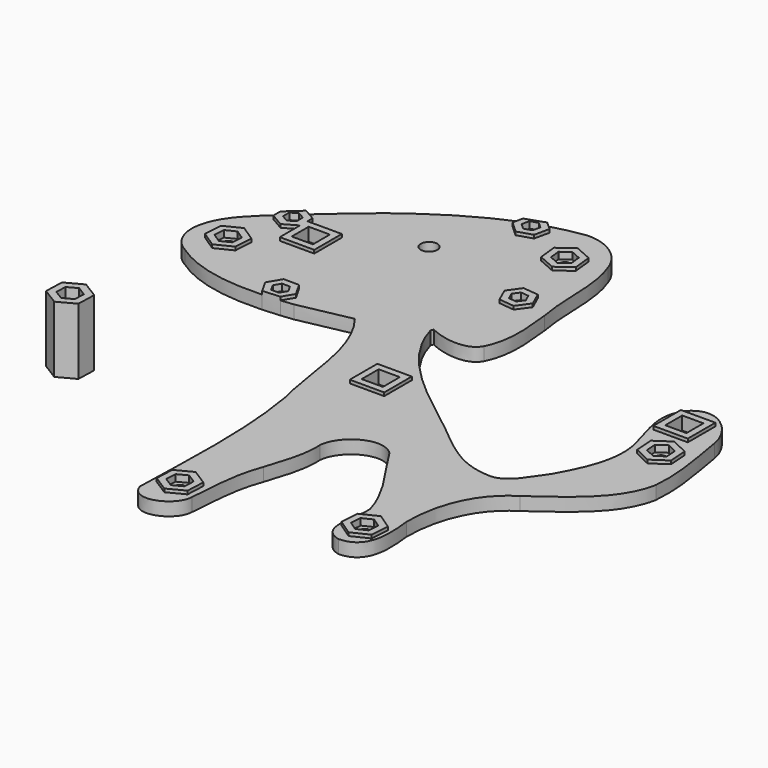
from build123d import *

# Parameters (mm, degrees)
F0_R     = 6.25
F0_W     = 26
F0_H     = 26
F1_DEPTH = 10
F0_R_2   = 3.75
F2_DEPTH = 7.5
F0_R_3   = 2.75
F0_W_2   = 16
F0_H_2   = 16
F0_R_4   = 1.5
F3_DEPTH = 2.5
F4_DEPTH = 12.5
F5_DEPTH = 12.5
F6_R     = 3.75
F7_DEPTH = 7.5
F8_DEPTH = 50


with BuildPart() as f1:
    # F0 (on Top) → F1 (new body)
    with BuildSketch(Plane.XY):
        with BuildLine():
            add(Edge.make_bspline(
                [(-38.841875, 161.131834), (-39.720123, 129.920314), (-16.072931, 104.294138), (-15.185107, 73.38685)],
                knots=[0, 0, 0, 0, 1, 1, 1, 1], degree=3))
            Line((-38.841875, 161.131834), (-41.554724616, 177.0838462644))
            Line((-41.554724616, 177.0838462644), (-23.9367173132, 180.6192583294))
            Line((-23.9367173132, 180.6192583294), (-24.2669254741, 183.6946423517))
            Line((-24.2669254741, 183.6946423517), (-12.958562974, 191.9494452505))
            Line((-12.958562974, 191.9494452505), (-0.1555127103, 186.2835174995))
            Line((-0.1555127103, 186.2835174995), (-0.0617495412, 185.4102569743))
            Line((-0.0617495412, 185.4102569743), (13.204509, 188.072402))
            add(Edge.make_bspline(
                [(-21.281315, 211.977922), (-6.118395, 212.249314), (8.255597, 202.455546), (13.204509, 188.072402)],
                knots=[0, 0, 0, 0, 1, 1, 1, 1], degree=3))
            add(Edge.make_bspline(
                [(-47.3936642487, 206.3825959146), (-38.8712875454, 208.9149716362), (-30.1603501914, 210.8221492547), (-21.281315, 211.977922)],
                knots=[0.742089622, 0.742089622, 0.742089622, 0.742089622, 1, 1, 1, 1], degree=3))
            Line((-47.3936642487, 206.3825959146), (-41.195786113, 200.7080963895))
            Line((-41.195786113, 200.7080963895), (-43.7214392094, 189.2928181872))
            Line((-43.7214392094, 189.2928181872), (-54.8701866721, 185.7724588287))
            Line((-54.8701866721, 185.7724588287), (-63.4932810384, 193.6673776725))
            Line((-63.4932810384, 193.6673776725), (-61.7666893463, 201.4711115006))
            add(Edge.make_bspline(
                [(-115.787675, 172.001706), (-99.0147107488, 183.7376878674), (-80.9238753373, 194.0779171295), (-61.7666893463, 201.4711115006)],
                knots=[0, 0, 0, 0, 0.5952118172, 0.5952118172, 0.5952118172, 0.5952118172], degree=3))
            add(Edge.make_bspline(
                [(-167.8316685759, 129.3899788318), (-151.2044437982, 144.4531104032), (-134.3128899038, 159.2745541863), (-115.787675, 172.001706)],
                knots=[0.1470034681, 0.1470034681, 0.1470034681, 0.1470034681, 1, 1, 1, 1], degree=3))
            Line((-167.8316685759, 129.3899788318), (-158.8069967173, 124.1795821049))
            Line((-158.8069967173, 124.1795821049), (-158.8069967173, 119.3435301185))
            Line((-158.8069967173, 119.3435301185), (-132.8584666252, 119.3435301185))
            Line((-132.8584666252, 119.3435301185), (-132.8584666252, 93.3435301185))
            Line((-132.8584666252, 93.3435301185), (-158.8584666252, 93.3435301185))
            Line((-158.8584666252, 93.3435301185), (-158.8584666252, 112.4585229886))
            Line((-158.8584666252, 112.4585229886), (-168.9319967173, 106.6425676782))
            Line((-168.9319967173, 106.6425676782), (-179.0569967173, 112.4882391538))
            Line((-179.0569967173, 112.4882391538), (-179.0569967173, 119.2292731949))
            add(Edge.make_bspline(
                [(-209.108739, 75.891962), (-207.2498367733, 94.497790766), (-192.3128947706, 107.4481313801), (-179.0569967173, 119.2292731949)],
                knots=[0, 0, 0, 0, 0.9370260318, 0.9370260318, 0.9370260318, 0.9370260318], degree=3))
            add(Edge.make_bspline(
                [(-195.672755, 49.820258), (-205.198979, 54.880378), (-210.113259, 65.305282), (-209.108739, 75.891962)],
                knots=[0, 0, 0, 0, 1, 1, 1, 1], degree=3))
            add(Edge.make_bspline(
                [(-124.0952362301, 33.2749341836), (-149.1550807874, 32.1589785846), (-174.7482235571, 35.2930101361), (-195.672755, 49.820258)],
                knots=[0.2320195156, 0.2320195156, 0.2320195156, 0.2320195156, 1, 1, 1, 1], degree=3))
            Line((-124.0952362301, 33.2749341836), (-129.5007330881, 42.8745571083))
            Line((-129.5007330881, 42.8745571083), (-123.5464806086, 52.9360866844))
            Line((-123.5464806086, 52.9360866844), (-111.8558141551, 52.8103175647))
            Line((-111.8558141551, 52.8103175647), (-106.1194001809, 42.6230188689))
            Line((-106.1194001809, 42.6230188689), (-111.1011926278, 34.2047577659))
            add(Edge.make_bspline(
                [(-101.671739, 35.253146), (-104.7839178769, 34.8642399789), (-107.9307285043, 34.5097521444), (-111.1011926278, 34.2047577659)],
                knots=[0, 0, 0, 0, 0.0985084948, 0.0985084948, 0.0985084948, 0.0985084948], degree=3))
            add(Edge.make_bspline(
                [(-62.1746247344, 43.2968581896), (-75.3043546753, 40.4233110508), (-88.4891608143, 37.7978454214), (-101.671739, 35.253146)],
                knots=[0.4611117231, 0.4611117231, 0.4611117231, 0.4611117231, 1, 1, 1, 1], degree=3))
            add(Edge.make_bspline(
                [(-28.627267, 51.323042), (-39.7454600662, 48.3961261156), (-50.9398796945, 45.7556726215), (-62.1746247344, 43.2968581896)],
                knots=[0, 0, 0, 0, 0.4611117231, 0.4611117231, 0.4611117231, 0.4611117231], degree=3))
            add(Edge.make_bspline(
                [(-18.1623786352, 59.599996037), (-20.2008427618, 55.2444568753), (-23.4860225124, 51.8394994195), (-28.627267, 51.323042)],
                knots=[0.4962491909, 0.4962491909, 0.4962491909, 0.4962491909, 1, 1, 1, 1], degree=3))
            add(Edge.make_bspline(
                [(-17.2723689683, 61.7690988961), (-17.5384302326, 61.0268229981), (-17.8342529794, 60.3010945382), (-18.1623786352, 59.599996037)],
                knots=[0.4151618848, 0.4151618848, 0.4151618848, 0.4151618848, 0.4962491909, 0.4962491909, 0.4962491909, 0.4962491909], degree=3))
            add(Edge.make_bspline(
                [(-15.185107, 73.38685), (-15.3280953957, 69.8036807685), (-15.910152103, 65.5695046032), (-17.2723689683, 61.7690988961)],
                knots=[0, 0, 0, 0, 0.4151618848, 0.4151618848, 0.4151618848, 0.4151618848], degree=3))
        make_face()
        Polygon((-170.7598724298, 81.4658008802), (-171.6623964445, 67.4941766462), (-184.2134399707, 61.2899732535), (-195.8619594821, 69.0573940948), (-194.9594354673, 83.0290183288), (-182.4083919412, 89.2332217215), align=None, mode=Mode.SUBTRACT)
        with Locations((-85.4194015265, 142.3747986555)):
            Circle(F0_R, mode=Mode.SUBTRACT)
        with BuildLine():
            add(Edge.make_bspline(
                [(57.014525, -25.174534), (28.6733788851, -3.0887744829), (-8.0420129595, 23.5504424782), (-18.1623786352, 59.599996037)],
                knots=[0, 0, 0, 0, 0.996419578, 0.996419578, 0.996419578, 0.996419578], degree=3))
            add(Edge.make_bspline(
                [(-18.1623786352, 59.599996037), (-20.2008427618, 55.2444568753), (-23.4860225124, 51.8394994195), (-28.627267, 51.323042)],
                knots=[0.4962491909, 0.4962491909, 0.4962491909, 0.4962491909, 1, 1, 1, 1], degree=3))
            add(Edge.make_bspline(
                [(-28.627267, 51.323042), (-39.7454600662, 48.3961261156), (-50.9398796945, 45.7556726215), (-62.1746247344, 43.2968581896)],
                knots=[0, 0, 0, 0, 0.4611117231, 0.4611117231, 0.4611117231, 0.4611117231], degree=3))
            add(Edge.make_bspline(
                [(-62.1746247344, 43.2968581896), (-38.7010549144, 13.6718170906), (-40.5146225864, -26.002488494), (-31.573187, -60.938622)],
                knots=[0.0013568213, 0.0013568213, 0.0013568213, 0.0013568213, 1, 1, 1, 1], degree=3))
            add(Edge.make_bspline(
                [(-31.573187, -60.938622), (-23.400563, -107.84707), (-26.409203, -155.63679), (-27.471507, -202.965126)],
                knots=[0, 0, 0, 0, 1, 1, 1, 1], degree=3))
            add(Edge.make_bspline(
                [(-27.471507, -202.965126), (-21.708147, -220.557574), (4.435949, -209.572294), (4.982013, -194.234886)],
                knots=[0, 0, 0, 0, 1, 1, 1, 1], degree=3))
            add(Edge.make_bspline(
                [(4.982013, -194.234886), (6.600541, -175.331286), (6.884125, -155.999534), (13.792981, -137.997646)],
                knots=[0, 0, 0, 0, 1, 1, 1, 1], degree=3))
            add(Edge.make_bspline(
                [(13.792981, -137.997646), (18.168581, -124.085678), (23.349429, -109.870286), (22.364005, -95.122182)],
                knots=[0, 0, 0, 0, 1, 1, 1, 1], degree=3))
            add(Edge.make_bspline(
                [(22.364005, -95.122182), (24.094525, -78.112846), (46.938301, -64.425422), (60.715557, -77.628758)],
                knots=[0, 0, 0, 0, 1, 1, 1, 1], degree=3))
            add(Edge.make_bspline(
                [(60.715557, -77.628758), (73.105373, -98.242278), (89.767797, -117.104694), (96.440037, -140.57535)],
                knots=[0, 0, 0, 0, 1, 1, 1, 1], degree=3))
            add(Edge.make_bspline(
                [(96.440037, -140.57535), (97.656061, -154.092326), (86.490525, -177.328742), (105.705645, -182.178038)],
                knots=[0, 0, 0, 0, 1, 1, 1, 1], degree=3))
            add(Edge.make_bspline(
                [(105.705645, -182.178038), (127.945549, -181.806214), (125.166605, -155.569286), (123.380701, -140.15547)],
                knots=[0, 0, 0, 0, 1, 1, 1, 1], degree=3))
            add(Edge.make_bspline(
                [(123.380701, -140.15547), (123.030069, -114.518878), (132.053173, -86.509086), (155.029205, -72.557742)],
                knots=[0, 0, 0, 0, 1, 1, 1, 1], degree=3))
            add(Edge.make_bspline(
                [(155.029205, -72.557742), (176.858373, -56.72987), (203.358797, -40.107718), (208.794317, -11.550278)],
                knots=[0, 0, 0, 0, 1, 1, 1, 1], degree=3))
            add(Edge.make_bspline(
                [(208.794317, -11.550278), (210.760829, 9.708514), (205.902277, 30.863242), (202.518581, 51.710506)],
                knots=[0, 0, 0, 0, 1, 1, 1, 1], degree=3))
            add(Edge.make_bspline(
                [(202.518581, 51.710506), (200.091805, 68.07933), (179.657149, 89.318258), (164.137357, 73.983162)],
                knots=[0, 0, 0, 0, 1, 1, 1, 1], degree=3))
            add(Edge.make_bspline(
                [(164.137357, 73.983162), (151.984253, 58.609282), (162.314509, 39.47953), (166.071445, 23.005226)],
                knots=[0, 0, 0, 0, 1, 1, 1, 1], degree=3))
            add(Edge.make_bspline(
                [(166.071445, 23.005226), (172.108389, 1.46617), (162.483421, -20.577366), (151.873069, -38.997502)],
                knots=[0, 0, 0, 0, 1, 1, 1, 1], degree=3))
            add(Edge.make_bspline(
                [(151.873069, -38.997502), (144.148685, -48.828126), (137.702021, -65.257822), (122.783901, -63.454526)],
                knots=[0, 0, 0, 0, 1, 1, 1, 1], degree=3))
            add(Edge.make_bspline(
                [(122.783901, -63.454526), (95.859357, -62.151406), (77.565677, -39.701878), (57.014525, -25.174534)],
                knots=[0, 0, 0, 0, 1, 1, 1, 1], degree=3))
        make_face()
        Polygon((1.4613006074, -179.20842073), (0.8443590831, -193.1955654168), (-11.5773343043, -199.6548507275), (-23.3820861673, -192.1269913514), (-22.7651446429, -178.1398466646), (-10.3434512556, -171.6805613539), align=None, mode=Mode.SUBTRACT)
        with Locations((0, -9.9739721045)):
            Rectangle(F0_W, F0_H, mode=Mode.SUBTRACT)
        Polygon((108.0731969045, -175.46842739), (96.4976654361, -167.5926477743), (97.5305249237, -153.6300536524), (110.1389158798, -147.5432391463), (121.7144473483, -155.4190187621), (120.6815878606, -169.3816128839), align=None, mode=Mode.SUBTRACT)
        Polygon((198.2778230025, 28.7600329155), (199.2721180715, 14.7946395931), (187.674880215, 6.9508581433), (175.0833472894, 13.0724700158), (174.0890522204, 27.0378633382), (185.6862900769, 34.8816447881), align=None, mode=Mode.SUBTRACT)
        with Locations((176.5071898699, 55.7546503842)):
            Rectangle(F0_W, F0_H, mode=Mode.SUBTRACT)
        with BuildLine():
            Line((-41.554724616, 177.0838462644), (-38.841875, 161.131834))
            add(Edge.make_bspline(
                [(-38.841875, 161.131834), (-39.720123, 129.920314), (-16.072931, 104.294138), (-15.185107, 73.38685)],
                knots=[0, 0, 0, 0, 1, 1, 1, 1], degree=3))
            add(Edge.make_bspline(
                [(-15.185107, 73.38685), (-15.3280953957, 69.8036807685), (-15.910152103, 65.5695046032), (-17.2723689683, 61.7690988961)],
                knots=[0, 0, 0, 0, 0.4151618848, 0.4151618848, 0.4151618848, 0.4151618848], degree=3))
            add(Edge.make_bspline(
                [(19.095957, 63.59193), (13.0828481658, 52.2326423887), (-7.8170760841, 56.6371800393), (-17.2723689683, 61.7690988961)],
                knots=[0, 0, 0, 0, 0.9950259258, 0.9950259258, 0.9950259258, 0.9950259258], degree=3))
            add(Edge.make_bspline(
                [(22.565333, 116.355762), (24.311245, 98.93593), (27.200845, 79.87889), (19.095957, 63.59193)],
                knots=[0, 0, 0, 0, 1, 1, 1, 1], degree=3))
            add(Edge.make_bspline(
                [(13.204509, 188.072402), (22.298109, 165.182042), (17.809973, 140.049754), (22.565333, 116.355762)],
                knots=[0, 0, 0, 0, 1, 1, 1, 1], degree=3))
            Line((13.204509, 188.072402), (-0.0617495412, 185.4102569743))
            Line((-0.0617495412, 185.4102569743), (1.3391750532, 172.3627868498))
            Line((1.3391750532, 172.3627868498), (-9.969187447, 164.107983951))
            Line((-9.969187447, 164.107983951), (-22.7722377106, 169.773911702))
            Line((-22.7722377106, 169.773911702), (-23.9367173132, 180.6192583294))
            Line((-23.9367173132, 180.6192583294), (-41.554724616, 177.0838462644))
        make_face()
        Polygon((5.6602934151, 131.0531821063), (10.4032766834, 120.3671346744), (3.5203797754, 110.9165669584), (-8.1055004008, 112.1520466743), (-12.8484836691, 122.8380941062), (-5.9655867611, 132.2886618222), align=None, mode=Mode.SUBTRACT)
    extrude(amount=F1_DEPTH)



with BuildPart() as f2:
    # F0 (on Top) → F2 (new body)
    with BuildSketch(Plane.XY):
        Polygon((-183.8412651192, 67.0514677829), (-176.4659096451, 70.6972367869), (-175.9355604818, 78.9073664914), (-182.7805667926, 83.471727192), (-190.1559222668, 79.825958188), (-190.6862714301, 71.6158284835), align=None)
        with Locations((-183.3109159559, 75.2615974875)):
            Circle(F0_R_2, mode=Mode.SUBTRACT)
    extrude(amount=F2_DEPTH)


with BuildPart() as f2b:
    # F0 (on Top) → F2, piece 2 (new body)
    with BuildSketch(Plane.XY):
        Polygon((-114.9064496847, 37.5922540809), (-111.8925688, 42.6851270762), (-114.7961857499, 47.8416609839), (-120.7136835844, 47.9053218964), (-123.727564469, 42.8124489011), (-120.8239475192, 37.6559149933), align=None)
        with Locations((-117.8100666345, 42.7487879886)):
            Circle(F0_R_3, mode=Mode.SUBTRACT)
    extrude(amount=F2_DEPTH)


with BuildPart() as f2c:
    # F0 (on Top) → F2, piece 3 (new body)
    with BuildSketch(Plane.XY):
        Polygon((-174.0569967173, 115.3749904997), (-168.9319967173, 112.4160703701), (-163.8069967173, 115.3749904997), (-163.8069967173, 121.2928307589), (-168.9319967173, 124.2517508885), (-174.0569967173, 121.2928307589), align=None)
        with Locations((-168.9319967173, 118.3339106293)):
            Circle(F0_R_3, mode=Mode.SUBTRACT)
    extrude(amount=F2_DEPTH)


with BuildPart() as f2d:
    # F0 (on Top) → F2, piece 4 (new body)
    with BuildSketch(Plane.XY):
        Polygon((-53.6229505751, 191.4096332496), (-47.979757415, 193.1915435422), (-46.7013404155, 198.9696473236), (-51.0661165762, 202.9658408124), (-56.7093097364, 201.1839305199), (-57.9877267358, 195.4058267384), align=None)
        with Locations((-52.3445335757, 197.187737031)):
            Circle(F0_R_3, mode=Mode.SUBTRACT)
    extrude(amount=F2_DEPTH)


with BuildPart() as f2e:
    # F0 (on Top) → F2, piece 5 (new body)
    with BuildSketch(Plane.XY):
        Polygon((-7.2692429062, 183.9639266054), (-18.5069135885, 181.7088590583), (-18.987317118, 181.3581772998), (-18.1089954425, 173.1779541345), (-10.585553535, 169.8484914354), (-3.9404333029, 174.6992519017), (-4.8187549784, 182.8794750671), align=None)
        with Locations((-11.4638752105, 178.0287146008)):
            Circle(F0_R_2, mode=Mode.SUBTRACT)
        Polygon((-12.3421968859, 186.2089377661), (-18.5069135885, 181.7088590583), (-7.2692429062, 183.9639266054), align=None)
    extrude(amount=F2_DEPTH)


with BuildPart() as f2f:
    # F0 (on Top) → F2, piece 6 (new body)
    with BuildSketch(Plane.XY):
        Polygon((1.1781658158, 116.1936274186), (4.6621012877, 120.9772481144), (2.2613319791, 126.3862350861), (-3.6233728015, 127.011601362), (-7.1073082734, 122.2279806663), (-4.7065389648, 116.8189936946), align=None)
        with Locations((-1.2226034929, 121.6026143903)):
            Circle(F0_R_3, mode=Mode.SUBTRACT)
    extrude(amount=F2_DEPTH)


with BuildPart() as f2g:
    # F0 (on Top) → F2, piece 7 (new body)
    with BuildSketch(Plane.XY):
        Polygon((-11.3229254282, -193.8869560113), (-4.0235798295, -190.0912935091), (-3.6610471812, -181.8720435386), (-10.5978601316, -177.4484560701), (-17.8972057303, -181.2441185723), (-18.2597383787, -189.4633685428), align=None)
        with Locations((-10.9603927799, -185.6677060407)):
            Circle(F0_R_2, mode=Mode.SUBTRACT)
    extrude(amount=F2_DEPTH)


with BuildPart() as f2h:
    # F0 (on Top) → F2, piece 8 (new body)
    with BuildSketch(Plane.XY):
        Polygon((108.4991183427, -169.7106566181), (115.9081728221, -166.1338687125), (116.5151108715, -157.9290453625), (109.7129944416, -153.3010099182), (102.3039399623, -156.8777978238), (101.6970019128, -165.0826211738), align=None)
        with Locations((109.1060563922, -161.5058332682)):
            Circle(F0_R_2, mode=Mode.SUBTRACT)
    extrude(amount=F2_DEPTH)


with BuildPart() as f2i:
    # F0 (on Top) → F2, piece 9 (new body)
    with BuildSketch(Plane.XY):
        Polygon((187.2648616298, 12.7097832247), (194.0797333599, 17.3190156231), (193.4954568761, 25.525483864), (186.0963086621, 29.1227197067), (179.281436932, 24.5134873083), (179.8657134158, 16.3070190673), align=None)
        with Locations((186.680585146, 20.9162514657)):
            Circle(F0_R_2, mode=Mode.SUBTRACT)
    extrude(amount=F2_DEPTH)


with BuildPart() as f3:
    # F0 (on Top) → F3 (new body)
    with BuildSketch(Plane.XY):
        with Locations((-145.8584666252, 106.3435301185)):
            Rectangle(F0_W_2, F0_H_2)
        with Locations((-145.8584666252, 100.3435301185)):
            Circle(F0_R_4, mode=Mode.SUBTRACT)
        with Locations((-145.8584666252, 112.3435301185)):
            Circle(F0_R_4, mode=Mode.SUBTRACT)
    extrude(amount=F3_DEPTH)


with BuildPart() as f3b:
    # F0 (on Top) → F3, piece 2 (new body)
    with BuildSketch(Plane.XY):
        with Locations((0, -9.9739721045)):
            Rectangle(F0_W_2, F0_H_2)
        with Locations((-6, -9.9739721045)):
            Circle(F0_R_4, mode=Mode.SUBTRACT)
        with Locations((6, -9.9739721045)):
            Circle(F0_R_4, mode=Mode.SUBTRACT)
    extrude(amount=F3_DEPTH)


with BuildPart() as f3c:
    # F0 (on Top) → F3, piece 3 (new body)
    with BuildSketch(Plane.XY):
        with Locations((176.5071898699, 55.7546503842)):
            Rectangle(F0_W_2, F0_H_2)
        with Locations((170.5071898699, 55.7546503842)):
            Circle(F0_R_4, mode=Mode.SUBTRACT)
        with Locations((182.5071898699, 55.7546503842)):
            Circle(F0_R_4, mode=Mode.SUBTRACT)
    extrude(amount=F3_DEPTH)


with BuildPart() as f1_1:
    add(f1.part)

    add(f2.part)  # F4 merges F2

    add(f2b.part)  # F4 merges F2b

    add(f2c.part)  # F4 merges F2c

    add(f2d.part)  # F4 merges F2d

    add(f2e.part)  # F4 merges F2e

    add(f2f.part)  # F4 merges F2f

    add(f2g.part)  # F4 merges F2g

    add(f2h.part)  # F4 merges F2h

    add(f2i.part)  # F4 merges F2i

    add(f3b.part)  # F4 merges F3b

    add(f3c.part)  # F4 merges F3c
    # F0 (on Top) → F4 (join)
    with BuildSketch(Plane.XY):
        Polygon((-184.2134399707, 61.2899732535), (-171.6623964445, 67.4941766462), (-170.7598724298, 81.4658008802), (-182.4083919412, 89.2332217215), (-194.9594354673, 83.0290183288), (-195.8619594821, 69.0573940948), align=None)
        Polygon((-175.9355604818, 78.9073664914), (-176.4659096451, 70.6972367869), (-183.8412651192, 67.0514677829), (-190.6862714301, 71.6158284835), (-190.1559222668, 79.825958188), (-182.7805667926, 83.471727192), align=None, mode=Mode.SUBTRACT)
        with BuildLine():
            Line((-158.8069967173, 124.1795821049), (-167.8316685759, 129.3899788318))
            add(Edge.make_bspline(
                [(-176.411619, 121.59009), (-173.5548135777, 124.190909463), (-170.697166402, 126.7940332456), (-167.8316685759, 129.3899788318)],
                knots=[0, 0, 0, 0, 0.1470034681, 0.1470034681, 0.1470034681, 0.1470034681], degree=3))
            add(Edge.make_bspline(
                [(-179.0569967173, 119.2292731949), (-178.16611805, 120.0210390849), (-177.2828321112, 120.8075240844), (-176.411619, 121.59009)],
                knots=[0.9370260318, 0.9370260318, 0.9370260318, 0.9370260318, 1, 1, 1, 1], degree=3))
            Line((-179.0569967173, 119.2292731949), (-179.0569967173, 112.4882391538))
            Line((-179.0569967173, 112.4882391538), (-168.9319967173, 106.6425676782))
            Line((-168.9319967173, 106.6425676782), (-158.8584666252, 112.4585229886))
            Line((-158.8584666252, 112.4585229886), (-158.8584666252, 119.3435301185))
            Line((-158.8584666252, 119.3435301185), (-158.8069967173, 119.3435301185))
            Line((-158.8069967173, 119.3435301185), (-158.8069967173, 124.1795821049))
        make_face()
        Polygon((-163.8069967173, 115.3749904997), (-168.9319967173, 112.4160703701), (-174.0569967173, 115.3749904997), (-174.0569967173, 121.2928307589), (-168.9319967173, 124.2517508885), (-163.8069967173, 121.2928307589), align=None, mode=Mode.SUBTRACT)
        with BuildLine():
            Line((-41.195786113, 200.7080963895), (-47.3936642487, 206.3825959146))
            add(Edge.make_bspline(
                [(-61.7666893463, 201.4711115006), (-57.039354735, 203.2954975902), (-52.2470865559, 204.9404291053), (-47.3936642487, 206.3825959146)],
                knots=[0.5952118172, 0.5952118172, 0.5952118172, 0.5952118172, 0.742089622, 0.742089622, 0.742089622, 0.742089622], degree=3))
            Line((-61.7666893463, 201.4711115006), (-63.4932810384, 193.6673776725))
            Line((-63.4932810384, 193.6673776725), (-54.8701866721, 185.7724588287))
            Line((-54.8701866721, 185.7724588287), (-43.7214392094, 189.2928181872))
            Line((-43.7214392094, 189.2928181872), (-41.195786113, 200.7080963895))
        make_face()
        Polygon((-46.7013404155, 198.9696473236), (-47.979757415, 193.1915435422), (-53.6229505751, 191.4096332496), (-57.9877267358, 195.4058267384), (-56.7093097364, 201.1839305199), (-51.0661165762, 202.9658408124), align=None, mode=Mode.SUBTRACT)
        Polygon((-18.5069135885, 181.7088590583), (-23.9367173132, 180.6192583294), (-22.7722377106, 169.773911702), (-9.969187447, 164.107983951), (1.3391750532, 172.3627868498), (-0.0617495412, 185.4102569743), (-7.2692429062, 183.9639266054), (-4.8187549784, 182.8794750671), (-3.9404333029, 174.6992519017), (-10.585553535, 169.8484914354), (-18.1089954425, 173.1779541345), (-18.987317118, 181.3581772998), align=None)
        with BuildLine():
            add(Edge.make_bspline(
                [(-111.1011926278, 34.2047577659), (-115.3982017556, 33.7913912751), (-119.7386601257, 33.4689395967), (-124.0952362301, 33.2749341836)],
                knots=[0.0985084948, 0.0985084948, 0.0985084948, 0.0985084948, 0.2320195156, 0.2320195156, 0.2320195156, 0.2320195156], degree=3))
            Line((-111.1011926278, 34.2047577659), (-106.1194001809, 42.6230188689))
            Line((-106.1194001809, 42.6230188689), (-111.8558141551, 52.8103175647))
            Line((-111.8558141551, 52.8103175647), (-123.5464806086, 52.9360866844))
            Line((-123.5464806086, 52.9360866844), (-129.5007330881, 42.8745571083))
            Line((-129.5007330881, 42.8745571083), (-124.0952362301, 33.2749341836))
        make_face()
        Polygon((-114.7961857499, 47.8416609839), (-111.8925688, 42.6851270762), (-114.9064496847, 37.5922540809), (-120.8239475192, 37.6559149933), (-123.727564469, 42.8124489011), (-120.7136835844, 47.9053218964), align=None, mode=Mode.SUBTRACT)
        Polygon((3.5203797754, 110.9165669584), (10.4032766834, 120.3671346744), (5.6602934151, 131.0531821063), (-5.9655867611, 132.2886618222), (-12.8484836691, 122.8380941062), (-8.1055004008, 112.1520466743), align=None)
        Polygon((2.2613319791, 126.3862350861), (4.6621012877, 120.9772481144), (1.1781658158, 116.1936274186), (-4.7065389648, 116.8189936946), (-7.1073082734, 122.2279806663), (-3.6233728015, 127.011601362), align=None, mode=Mode.SUBTRACT)
        Polygon((-24.2669254741, 183.6946423517), (-23.9367173132, 180.6192583294), (-18.5069135885, 181.7088590583), (-12.3421968859, 186.2089377661), (-7.2692429062, 183.9639266054), (-0.0617495412, 185.4102569743), (-0.1555127103, 186.2835174995), (-12.958562974, 191.9494452505), align=None)
        with Locations((0, -9.9739721045)):
            Rectangle(F0_W, F0_H)
        with Locations((0, -9.9739721045)):
            Rectangle(F0_W_2, F0_H_2, mode=Mode.SUBTRACT)
        with Locations((176.5071898699, 55.7546503842)):
            Rectangle(F0_W, F0_H)
        with Locations((176.5071898699, 55.7546503842)):
            Rectangle(F0_W_2, F0_H_2, mode=Mode.SUBTRACT)
        Polygon((187.674880215, 6.9508581433), (199.2721180715, 14.7946395931), (198.2778230025, 28.7600329155), (185.6862900769, 34.8816447881), (174.0890522204, 27.0378633382), (175.0833472894, 13.0724700158), align=None)
        Polygon((193.4954568761, 25.525483864), (194.0797333599, 17.3190156231), (187.2648616298, 12.7097832247), (179.8657134158, 16.3070190673), (179.281436932, 24.5134873083), (186.0963086621, 29.1227197067), align=None, mode=Mode.SUBTRACT)
        Polygon((97.5305249237, -153.6300536524), (96.4976654361, -167.5926477743), (108.0731969045, -175.46842739), (120.6815878606, -169.3816128839), (121.7144473483, -155.4190187621), (110.1389158798, -147.5432391463), align=None)
        Polygon((116.5151108715, -157.9290453625), (115.9081728221, -166.1338687125), (108.4991183427, -169.7106566181), (101.6970019128, -165.0826211738), (102.3039399623, -156.8777978238), (109.7129944416, -153.3010099182), align=None, mode=Mode.SUBTRACT)
        Polygon((-11.5773343043, -199.6548507275), (0.8443590831, -193.1955654168), (1.4613006074, -179.20842073), (-10.3434512556, -171.6805613539), (-22.7651446429, -178.1398466646), (-23.3820861673, -192.1269913514), align=None)
        Polygon((-3.6610471812, -181.8720435386), (-4.0235798295, -190.0912935091), (-11.3229254282, -193.8869560113), (-18.2597383787, -189.4633685428), (-17.8972057303, -181.2441185723), (-10.5978601316, -177.4484560701), align=None, mode=Mode.SUBTRACT)
    extrude(amount=F4_DEPTH)


    add(f3.part)  # F5 merges F3
    # F0 (on Top) → F5 (join)
    with BuildSketch(Plane.XY):
        Polygon((-132.8584666252, 119.3435301185), (-158.8069967173, 119.3435301185), (-158.8069967173, 112.4882391538), (-158.8584666252, 112.4585229886), (-158.8584666252, 93.3435301185), (-132.8584666252, 93.3435301185), align=None)
        with Locations((-145.8584666252, 106.3435301185)):
            Rectangle(F0_W_2, F0_H_2, mode=Mode.SUBTRACT)
        Polygon((-158.8069967173, 112.4882391538), (-158.8069967173, 119.3435301185), (-158.8584666252, 119.3435301185), (-158.8584666252, 112.4585229886), align=None)
    extrude(amount=F5_DEPTH)


with BuildPart() as f7:
    # F6 (on Top) → F7 (new body)
    with BuildSketch(Plane.XY):
        Polygon((-172.9720422188, -99.706921455), (-165.98453441, -104.0499888758), (-158.7295737888, -100.1701633146), (-158.4621209765, -91.9472703326), (-165.4496287853, -87.6042029118), (-172.7045894065, -91.484028473), align=None)
        with Locations((-165.7170815976, -95.8270958938)):
            Circle(F6_R, mode=Mode.SUBTRACT)
    extrude(amount=F7_DEPTH)

    # F6 (on Top) → F8 (join)
    with BuildSketch(Plane.XY):
        Polygon((-178.4450826874, -102.6338074047), (-166.1862970578, -110.2532239323), (-153.4582959681, -103.4465124215), (-152.9890805079, -89.0203843829), (-165.2478661374, -81.4009678552), (-177.9758672272, -88.2076793661), align=None)
        Polygon((-158.7295737888, -100.1701633146), (-165.98453441, -104.0499888758), (-172.9720422188, -99.706921455), (-172.7045894065, -91.484028473), (-165.4496287853, -87.6042029118), (-158.4621209765, -91.9472703326), align=None, mode=Mode.SUBTRACT)
    extrude(amount=F8_DEPTH)


solid = Compound([f1_1.part, f7.part])
